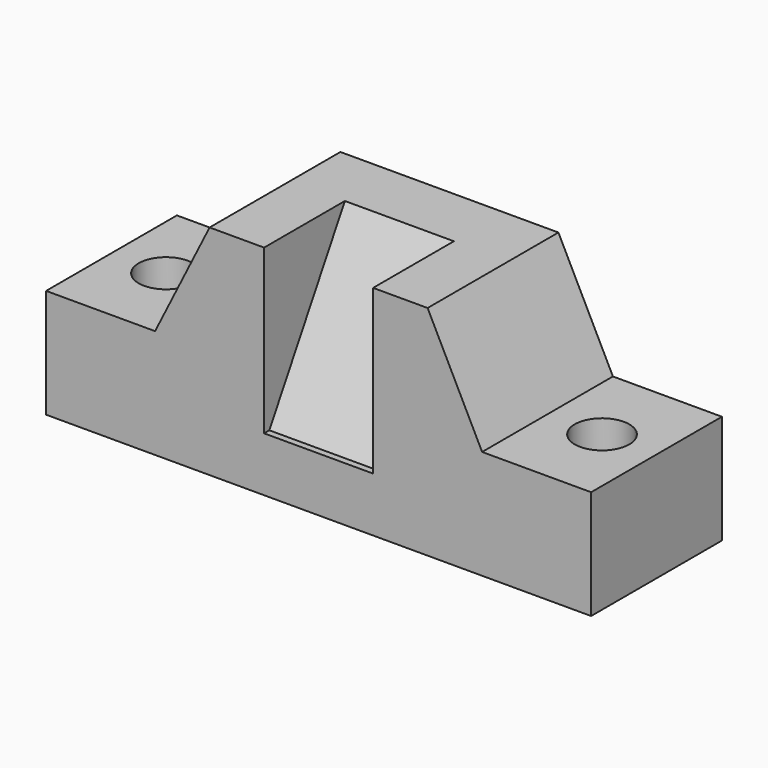
from build123d import *

# Parameters (mm, degrees)
F0_W      = 127
F0_H      = 50.8
F1_DEPTH  = 38.1
F3_DEPTH  = 38.1
F4_R      = 6.35
F5_DEPTH  = 25.4
F6_R      = 6.35
F7_DEPTH  = 25.4
F8_W      = 25.4
F8_H      = 38.202004
F9_DEPTH  = 38.1
F11_DEPTH = 25.4


with BuildPart() as f1:
    # F0 (on Front) → F1 (new body)
    with BuildSketch(Plane.XZ):
        with Locations((-2.091765, 1.867647)):
            Rectangle(F0_W, F0_H)
    extrude(amount=F1_DEPTH)

    # F2 (on face) → F3 (cut)
    with BuildSketch(Plane.XZ.offset(38.1)):
        Polygon((36.008235, 1.867647), (61.408235, 1.867647), (61.408235, 27.267647), (23.308235, 27.267647), align=None)
        Polygon((-65.591765, 27.267647), (-65.591765, 1.867647), (-40.191765, 1.867647), (-27.491765, 27.267647), align=None)
    extrude(amount=-F3_DEPTH, mode=Mode.SUBTRACT)

    # F4 (on face) → F5 (cut)
    with BuildSketch(Plane.XY.offset(1.867647)):
        with Locations((48.708235, -19.05)):
            Circle(F4_R)
    extrude(amount=-F5_DEPTH, mode=Mode.SUBTRACT)

    # F6 (on face) → F7 (cut)
    with BuildSketch(Plane.XY.offset(1.867647)):
        with Locations((-52.891765, -19.05)):
            Circle(F6_R)
    extrude(amount=-F7_DEPTH, mode=Mode.SUBTRACT)

    # F8 (on face) → F9 (cut)
    with BuildSketch(Plane.XY.offset(27.267647)):
        with Locations((-2.091765, -18.998998)):
            Rectangle(F8_W, F8_H)
    extrude(amount=-F9_DEPTH, mode=Mode.SUBTRACT)

    # F10 (on face) → F11 (join)
    with BuildSketch(Plane.YZ.offset(-14.791765)):
        Polygon((-14.572936, 27.267647), (-36.569981, -10.832353), (0, -10.832353), (0, 27.267647), align=None)
    extrude(amount=F11_DEPTH)


solid = f1.part
